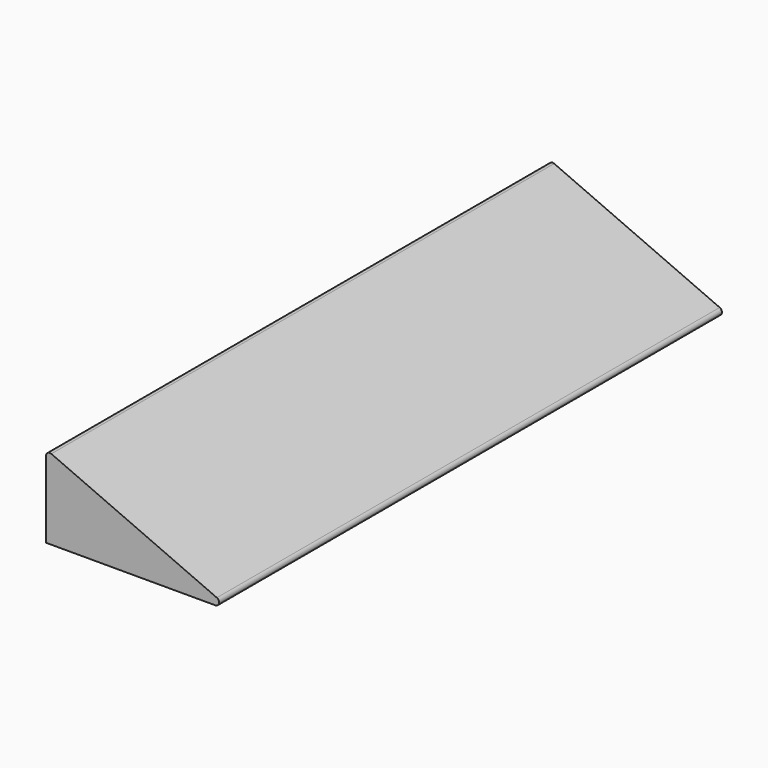
from build123d import *

# Parameters (mm, degrees)
F1_DEPTH = 168
F2_R     = 1


with BuildPart() as f1:
    # F0 (on Front) → F1 (new body)
    with BuildSketch(Plane.XZ):
        Polygon((0, 22), (0, 0), (50, 0), align=None)
    extrude(amount=F1_DEPTH)

    # F2
    f2_edges = [f1.edges().sort_by_distance(p)[0] for p in [
        (50, -84, 0),
        (0, -84, 22),
    ]]
    fillet(f2_edges, radius=F2_R)


solid = f1.part
